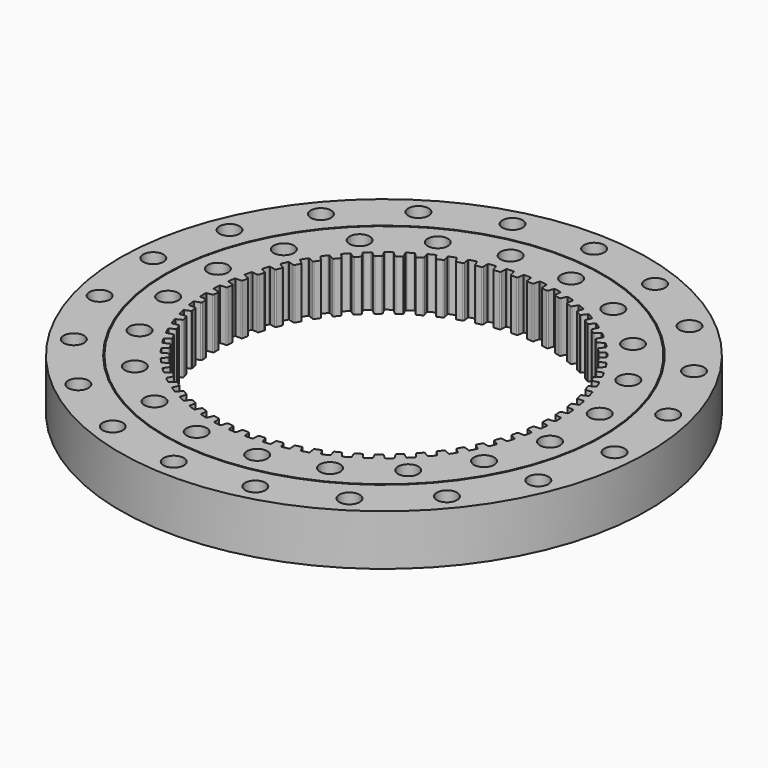
from build123d import *

# Parameters (mm, degrees)
F2_R     = 10
F3_DEPTH = 40
F4_R     = 10
F5_DEPTH = 50.001
F6_R     = 172
F7_DEPTH = 50


with BuildPart() as f1:
    # F0 (on Front) → F1 (revolve)
    with BuildSketch(Plane.XZ):
        with BuildLine():
            Line((-216, 25), (-260, 25))
            Line((-260, 25), (-260, -25))
            Line((-260, -25), (-216, -25))
            Line((-216, -25), (-216, -12.5))
            ThreePointArc((-216, -12.5), (-228.5, 0), (-216, 12.5))
            Line((-216, 12.5), (-216, 25))
        make_face()
        with BuildLine():
            Line((-172, 25), (-215, 25))
            Line((-215, 25), (-215, 12.459936))
            ThreePointArc((-215, 12.459936), (-203.5, 0), (-215, -12.459936))
            Line((-215, -12.459936), (-215, -25))
            Line((-215, -25), (-172, -25))
            Line((-172, -25), (-172, 25))
        make_face()
    revolve(axis=Axis((0, 0, -1.511259), (0, 0, -1)))

    # F2 (on face) → F3 (cut)
    with BuildSketch(Plane.XY.offset(25)):
        with Locations((-239.502752, 15.441241)):
            Circle(F2_R)
        with Locations((-232.552259, -59.324928)):
            Circle(F2_R)
        with Locations((-202.83793, -128.283959)):
            Circle(F2_R)
        with Locations((-153.268412, -184.685663)):
            Circle(F2_R)
        with Locations((-88.695913, -223.009047)):
            Circle(F2_R)
        with Locations((-15.441241, -239.502752)):
            Circle(F2_R)
        with Locations((59.324928, -232.552259)):
            Circle(F2_R)
        with Locations((128.283959, -202.83793)):
            Circle(F2_R)
        with Locations((184.685663, -153.268412)):
            Circle(F2_R)
        with Locations((223.009047, -88.695913)):
            Circle(F2_R)
        with Locations((239.502752, -15.441241)):
            Circle(F2_R)
        with Locations((232.552259, 59.324928)):
            Circle(F2_R)
        with Locations((202.83793, 128.283959)):
            Circle(F2_R)
        with Locations((153.268412, 184.685663)):
            Circle(F2_R)
        with Locations((88.695913, 223.009047)):
            Circle(F2_R)
        with Locations((15.441241, 239.502752)):
            Circle(F2_R)
        with Locations((-59.324928, 232.552259)):
            Circle(F2_R)
        with Locations((-128.283959, 202.83793)):
            Circle(F2_R)
        with Locations((-184.685663, 153.268412)):
            Circle(F2_R)
        with Locations((-223.009047, 88.695913)):
            Circle(F2_R)
    extrude(amount=-F3_DEPTH, mode=Mode.SUBTRACT)

    # F4 (on face) → F5 (cut, through all)
    with BuildSketch(Plane.XY.offset(25)):
        with Locations((-189.710619, 32.651661)):
            Circle(F4_R)
        with Locations((-190.515439, -27.57023)):
            Circle(F4_R)
        with Locations((-172.67128, -85.093355)):
            Circle(F4_R)
        with Locations((-137.924853, -134.28695)):
            Circle(F4_R)
        with Locations((-89.677381, -170.335602)):
            Circle(F4_R)
        with Locations((-32.651661, -189.710619)):
            Circle(F4_R)
        with Locations((27.57023, -190.515439)):
            Circle(F4_R)
        with Locations((85.093355, -172.67128)):
            Circle(F4_R)
        with Locations((134.28695, -137.924853)):
            Circle(F4_R)
        with Locations((170.335602, -89.677381)):
            Circle(F4_R)
        with Locations((189.710619, -32.651661)):
            Circle(F4_R)
        with Locations((190.515439, 27.57023)):
            Circle(F4_R)
        with Locations((172.67128, 85.093355)):
            Circle(F4_R)
        with Locations((137.924853, 134.28695)):
            Circle(F4_R)
        with Locations((89.677381, 170.335602)):
            Circle(F4_R)
        with Locations((32.651661, 189.710619)):
            Circle(F4_R)
        with Locations((-27.57023, 190.515439)):
            Circle(F4_R)
        with Locations((-85.093355, 172.67128)):
            Circle(F4_R)
        with Locations((-134.28695, 137.924853)):
            Circle(F4_R)
        with Locations((-170.335602, 89.677381)):
            Circle(F4_R)
    extrude(amount=-F5_DEPTH, mode=Mode.SUBTRACT)

    # F6 (on face) → F7 (join)
    with BuildSketch(Plane.XY.offset(25)):
        Circle(F6_R)
        with BuildLine():
            ThreePointArc((-166.084407, -3.5), (-165.3773, -3.207107), (-165.084407, -2.5))
            Line((-165.084407, -2.5), (-165.084407, 2.5))
            ThreePointArc((-165.084407, 2.5), (-165.3773, 3.207107), (-166.084407, 3.5))
            Line((-166.084407, 3.5), (-171.288848, 4.5))
            ThreePointArc((-171.288848, 4.5), (-171.622564, 5.047942), (-171.724965, 5.681283))
            ThreePointArc((-171.724965, 5.681283), (-171.618273, 8.301153), (-171.471613, 10.919089))
            ThreePointArc((-171.471613, 10.919089), (-171.308564, 11.53959), (-170.923522, 12.052766))
            Line((-170.923522, 12.052766), (-165.646863, 12.545797))
            ThreePointArc((-165.646863, 12.545797), (-164.914789, 12.769077), (-164.555017, 13.444614))
            Line((-164.555017, 13.444614), (-164.072448, 18.421272))
            ThreePointArc((-164.072448, 18.421272), (-164.295728, 19.153346), (-164.971265, 19.513118))
            Line((-164.971265, 19.513118), (-170.054896, 21.010751))
            ThreePointArc((-170.054896, 21.010751), (-170.33417, 21.588343), (-170.374968, 22.22861))
            ThreePointArc((-170.374968, 22.22861), (-170.015919, 24.825952), (-169.617277, 27.417513))
            ThreePointArc((-169.617277, 27.417513), (-169.395101, 28.01938), (-168.962329, 28.492999))
            Line((-168.962329, 28.492999), (-163.662719, 28.474456))
            ThreePointArc((-163.662719, 28.474456), (-162.912513, 28.626039), (-162.489222, 29.2637))
            Line((-162.489222, 29.2637), (-161.528588, 34.17055))
            ThreePointArc((-161.528588, 34.17055), (-161.680171, 34.920757), (-162.317832, 35.344047))
            Line((-162.317832, 35.344047), (-167.233188, 37.32533))
            ThreePointArc((-167.233188, 37.32533), (-167.455412, 37.927179), (-167.434225, 38.568395))
            ThreePointArc((-167.434225, 38.568395), (-166.826173, 41.118959), (-166.17927, 43.659946))
            ThreePointArc((-166.17927, 43.659946), (-165.900043, 44.237561), (-165.42358, 44.6672))
            Line((-165.42358, 44.6672), (-160.1505, 44.137258))
            ThreePointArc((-160.1505, 44.137258), (-159.389166, 44.215728), (-158.906308, 44.809558))
            Line((-158.906308, 44.809558), (-157.47658, 49.600787))
            ThreePointArc((-157.47658, 49.600787), (-157.55505, 50.362121), (-158.14888, 50.844979))
            Line((-158.14888, 50.844979), (-162.850069, 53.291412))
            ThreePointArc((-162.850069, 53.291412), (-163.013169, 53.9119), (-162.930194, 54.548077))
            ThreePointArc((-162.930194, 54.548077), (-162.078815, 57.028048), (-161.189692, 59.494739))
            ThreePointArc((-161.189692, 59.494739), (-160.856021, 60.042708), (-160.340315, 60.424355))
            Line((-160.340315, 60.424355), (-155.142999, 59.387962))
            ThreePointArc((-155.142999, 59.387962), (-154.377646, 59.392586), (-153.83973, 59.937042))
            Line((-153.83973, 59.937042), (-151.954255, 64.567915))
            ThreePointArc((-151.954255, 64.567915), (-151.958879, 65.333268), (-152.503335, 65.871184))
            Line((-152.503335, 65.871184), (-156.946462, 68.759927))
            ThreePointArc((-156.946462, 68.759927), (-157.048915, 69.393259), (-156.904927, 70.018458))
            ThreePointArc((-156.904927, 70.018458), (-155.818172, 72.404683), (-154.695129, 74.774045))
            ThreePointArc((-154.695129, 74.774045), (-154.310129, 75.287252), (-153.759997, 75.617345))
            Line((-153.759997, 75.617345), (-148.68697, 74.084176))
            ThreePointArc((-148.68697, 74.084176), (-147.924744, 74.014911), (-147.336791, 74.504909))
            Line((-147.336791, 74.504909), (-145.013175, 78.932189))
            ThreePointArc((-145.013175, 78.932189), (-144.94391, 79.694415), (-145.433908, 80.282368))
            Line((-145.433908, 80.282368), (-149.577488, 83.586449))
            ThreePointArc((-149.577488, 83.586449), (-149.618338, 84.226713), (-149.414682, 84.835096))
            ThreePointArc((-149.414682, 84.835096), (-148.102696, 87.105294), (-146.756219, 89.355206))
            ThreePointArc((-146.756219, 89.355206), (-146.323485, 89.828859), (-145.744063, 90.104315))
            Line((-145.744063, 90.104315), (-140.84269, 88.088687))
            ThreePointArc((-140.84269, 88.088687), (-140.090708, 87.94618), (-139.458208, 88.377144))
            Line((-139.458208, 88.377144), (-136.718145, 92.559495))
            ThreePointArc((-136.718145, 92.559495), (-136.575638, 93.311478), (-137.006603, 93.943978))
            Line((-137.006603, 93.943978), (-140.81195, 97.632547))
            ThreePointArc((-140.81195, 97.632547), (-140.790814, 98.273764), (-140.529392, 98.859652))
            ThreePointArc((-140.529392, 98.859652), (-139.004425, 100.992626), (-137.447086, 103.102081))
            ThreePointArc((-137.447086, 103.102081), (-136.970658, 103.531758), (-136.367355, 103.750007))
            Line((-136.367355, 103.750007), (-131.683401, 101.270737))
            ThreePointArc((-131.683401, 101.270737), (-130.948682, 101.056318), (-130.277541, 101.424226))
            Line((-130.277541, 101.424226), (-127.146615, 105.322598))
            ThreePointArc((-127.146615, 105.322598), (-126.932197, 106.057316), (-127.300104, 106.728457))
            Line((-127.300104, 106.728457), (-130.731689, 110.767076))
            ThreePointArc((-130.731689, 110.767076), (-130.648765, 111.40326), (-130.332016, 111.961182))
            ThreePointArc((-130.332016, 111.961182), (-128.608307, 113.937018), (-126.854647, 115.88632))
            ThreePointArc((-126.854647, 115.88632), (-126.338973, 116.268009), (-125.717423, 116.427012))
            Line((-125.717423, 116.427012), (-121.294619, 113.507249))
            ThreePointArc((-121.294619, 113.507249), (-120.584025, 113.222921), (-119.880508, 113.524337))
            Line((-119.880508, 113.524337), (-116.387951, 117.102332))
            ThreePointArc((-116.387951, 117.102332), (-116.103623, 117.812926), (-116.405039, 118.516442))
            Line((-116.405039, 118.516442), (-119.43082, 122.867402))
            ThreePointArc((-119.43082, 122.867402), (-119.286883, 123.492613), (-118.917766, 124.01736))
            ThreePointArc((-118.917766, 124.01736), (-117.011408, 125.81761), (-115.0778, 127.58856))
            ThreePointArc((-115.0778, 127.58856), (-114.527695, 127.918697), (-113.893701, 128.016969))
            Line((-113.893701, 128.016969), (-109.773341, 124.683975))
            ThreePointArc((-109.773341, 124.683975), (-109.093506, 124.332392), (-108.364183, 124.564502))
            Line((-108.364183, 124.564502), (-104.542605, 127.788713))
            ThreePointArc((-104.542605, 127.788713), (-104.191022, 128.468548), (-104.423131, 129.197871))
            Line((-104.423131, 129.197871), (-107.014859, 133.820549))
            ThreePointArc((-107.014859, 133.820549), (-106.811252, 134.428949), (-106.393213, 134.915621))
            ThreePointArc((-106.393213, 134.915621), (-104.322005, 136.523477), (-102.226503, 138.09954))
            ThreePointArc((-102.226503, 138.09954), (-101.647103, 138.375043), (-101.006583, 138.411667))
            Line((-101.006583, 138.411667), (-97.22714, 134.696561))
            ThreePointArc((-97.22714, 134.696561), (-96.584411, 134.281005), (-95.836091, 134.441641))
            Line((-95.836091, 134.441641), (-91.721172, 137.281965))
            ThreePointArc((-91.721172, 137.281965), (-91.305617, 137.924694), (-91.466253, 138.673014))
            Line((-91.466253, 138.673014), (-93.599729, 143.52425))
            ThreePointArc((-93.599729, 143.52425), (-93.338353, 144.110159), (-92.875295, 144.554212))
            ThreePointArc((-92.875295, 144.554212), (-90.658576, 145.954662), (-88.420744, 147.321121))
            ThreePointArc((-88.420744, 147.321121), (-87.817459, 147.539418), (-87.176395, 147.514052))
            Line((-87.176395, 147.514052), (-83.773155, 143.45152))
            ThreePointArc((-83.773155, 143.45152), (-83.173534, 142.975873), (-82.413204, 143.063536))
            Line((-82.413204, 143.063536), (-78.043363, 145.493453))
            ThreePointArc((-78.043363, 145.493453), (-77.567716, 146.093074), (-77.655379, 146.853404))
            Line((-77.655379, 146.853404), (-79.310683, 151.887903))
            ThreePointArc((-79.310683, 151.887903), (-78.993979, 152.44585), (-78.490225, 152.843139))
            ThreePointArc((-78.490225, 152.843139), (-76.148692, 154.023107), (-73.789425, 155.167205))
            ThreePointArc((-73.789425, 155.167205), (-73.167887, 155.326258), (-72.532264, 155.239138))
            Line((-72.532264, 155.239138), (-69.537003, 150.867112))
            ThreePointArc((-69.537003, 150.867112), (-68.986087, 150.335813), (-68.220846, 150.349684))
            Line((-68.220846, 150.349684), (-63.636885, 152.346507))
            ThreePointArc((-63.636885, 152.346507), (-63.105586, 152.897423), (-63.119457, 153.662664))
            Line((-63.119457, 153.662664), (-64.281135, 158.83342))
            ThreePointArc((-64.281135, 158.83342), (-63.91206, 159.358196), (-63.372314, 159.705011))
            ThreePointArc((-63.372314, 159.705011), (-60.927828, 160.653479), (-58.469153, 161.564534))
            ThreePointArc((-58.469153, 161.564534), (-57.835167, 161.662858), (-57.210919, 161.514799))
            Line((-57.210919, 161.514799), (-54.651602, 156.874098))
            ThreePointArc((-54.651602, 156.874098), (-54.154536, 156.292108), (-53.391528, 156.232058))
            Line((-53.391528, 156.232058), (-48.636246, 157.777143))
            ThreePointArc((-48.636246, 157.777143), (-48.054256, 158.274209), (-47.994206, 159.037217))
            Line((-47.994206, 159.037217), (-48.651411, 164.295952))
            ThreePointArc((-48.651411, 164.295952), (-48.233411, 164.782657), (-47.662712, 165.07576))
            ThreePointArc((-47.662712, 165.07576), (-45.138098, 165.783874), (-42.602971, 166.453379))
            ThreePointArc((-42.602971, 166.453379), (-41.962455, 166.490055), (-41.355411, 166.282439))
            Line((-41.355411, 166.282439), (-39.255934, 161.416393))
            ThreePointArc((-39.255934, 161.416393), (-38.817359, 160.789146), (-38.063709, 160.655736))
            Line((-38.063709, 160.655736), (-33.181503, 161.734657))
            ThreePointArc((-33.181503, 161.734657), (-32.554257, 162.173232), (-32.420847, 162.926882))
            Line((-32.420847, 162.926882), (-32.567442, 168.224496))
            ThreePointArc((-32.567442, 168.224496), (-32.104419, 168.668587), (-31.508096, 168.905241))
            ThreePointArc((-31.508096, 168.905241), (-28.926925, 169.366389), (-26.339017, 169.788094))
            ThreePointArc((-26.339017, 169.788094), (-25.697951, 169.76278), (-25.113779, 169.497544))
            Line((-25.113779, 169.497544), (-23.493744, 164.451586))
            ThreePointArc((-23.493744, 164.451586), (-23.117754, 163.784939), (-22.380499, 163.579414))
            Line((-22.380499, 163.579414), (-17.416954, 164.182097))
            ThreePointArc((-17.416954, 164.182097), (-16.750307, 164.558087), (-16.544782, 165.295343))
            Line((-16.544782, 165.295343), (-16.179399, 170.582375))
            ThreePointArc((-16.179399, 170.582375), (-15.675677, 170.979704), (-15.059298, 171.1577))
            ThreePointArc((-15.059298, 171.1577), (-12.445669, 171.367576), (-9.829142, 171.537543))
            ThreePointArc((-9.829142, 171.537543), (-9.193512, 171.450475), (-8.637666, 171.130097))
            Line((-8.637666, 171.130097), (-7.512199, 165.951339))
            ThreePointArc((-7.512199, 165.951339), (-7.202305, 165.251516), (-6.488328, 164.975795))
            Line((-6.488328, 164.975795), (-1.489788, 165.096614))
            ThreePointArc((-1.489788, 165.096614), (-0.789965, 165.406508), (-0.514243, 166.120486))
            Line((-0.514243, 166.120486), (0.359706, 171.347571))
            ThreePointArc((0.359706, 171.347571), (0.899424, 171.694429), (1.530105, 171.812105))
            ThreePointArc((1.530105, 171.812105), (4.151789, 171.76875), (6.772505, 171.685392))
            ThreePointArc((6.772505, 171.685392), (7.396764, 171.537384), (7.919094, 171.164854))
            Line((7.919094, 171.164854), (8.539485, 165.90165))
            ThreePointArc((8.539485, 165.90165), (8.780389, 165.175185), (9.464423, 164.831842))
            Line((9.464423, 164.831842), (14.451289, 164.469668))
            ThreePointArc((14.451289, 164.469668), (15.177754, 164.710572), (15.521097, 165.394606))
            Line((15.521097, 165.394606), (16.895453, 170.512941))
            ThreePointArc((16.895453, 170.512941), (17.466128, 170.80609), (18.105222, 170.862347))
            ThreePointArc((18.105222, 170.862347), (20.710482, 170.566165), (23.310919, 170.230261))
            ThreePointArc((23.310919, 170.230261), (23.917979, 170.022694), (24.401916, 169.601492))
            Line((24.401916, 169.601492), (24.511438, 164.302981))
            ThreePointArc((24.511438, 164.302981), (24.681104, 163.556657), (25.328807, 163.148898))
            Line((25.328807, 163.148898), (30.257437, 162.307113))
            ThreePointArc((30.257437, 162.307113), (31.003762, 162.476779), (31.411521, 163.124482))
            Line((31.411521, 163.124482), (33.273451, 168.086278))
            ThreePointArc((33.273451, 168.086278), (33.869755, 168.322981), (34.511295, 168.317293))
            ThreePointArc((34.511295, 168.317293), (37.075807, 167.77105), (39.631685, 167.185736))
            ThreePointArc((39.631685, 167.185736), (40.215878, 166.920548), (40.656904, 166.454605))
            Line((40.656904, 166.454605), (40.254535, 161.17026))
            ThreePointArc((40.254535, 161.17026), (40.351378, 160.411044), (40.956703, 159.942677))
            Line((40.956703, 159.942677), (45.781081, 158.62914))
            ThreePointArc((45.781081, 158.62914), (46.540296, 158.725983), (47.008663, 159.331308))
            Line((47.008663, 159.331308), (49.340784, 164.090239))
            ThreePointArc((49.340784, 164.090239), (49.957149, 164.268285), (50.595146, 164.200706))
            ThreePointArc((50.595146, 164.200706), (53.094966, 163.409502), (55.58242, 162.580242))
            ThreePointArc((55.58242, 162.580242), (56.138292, 162.25991), (56.53229, 161.753577))
            Line((56.53229, 161.753577), (55.621785, 156.532735))
            ThreePointArc((55.621785, 156.532735), (55.644902, 155.767717), (56.202197, 155.243114))
            Line((56.202197, 155.243114), (60.877278, 153.470089))
            ThreePointArc((60.877278, 153.470089), (61.642296, 153.493206), (62.166899, 154.050501))
            Line((62.166899, 154.050501), (64.947436, 158.562133))
            ThreePointArc((64.947436, 158.562133), (65.578107, 158.67986), (66.206603, 158.551021))
            ThreePointArc((66.206603, 158.551021), (68.618391, 157.522243), (71.014198, 156.456781))
            ThreePointArc((71.014198, 156.456781), (71.536558, 156.084294), (71.879848, 155.542299))
            Line((71.879848, 155.542299), (70.469711, 150.433706))
            ThreePointArc((70.469711, 150.433706), (70.418884, 149.670029), (70.922946, 149.094088))
            Line((70.922946, 149.094088), (75.405081, 146.87813))
            ThreePointArc((75.405081, 146.87813), (76.168758, 146.827304), (76.744699, 147.331366))
            Line((76.744699, 147.331366), (79.947691, 151.553575))
            ThreePointArc((79.947691, 151.553575), (80.58678, 151.609884), (81.199908, 151.420988))
            ThreePointArc((81.199908, 151.420988), (83.501144, 150.164242), (85.782935, 148.872525))
            ThreePointArc((85.782935, 148.872525), (86.266907, 148.451362), (86.556284, 147.878765))
            Line((86.556284, 147.878765), (84.659679, 142.930119))
            ThreePointArc((84.659679, 142.930119), (84.535385, 142.174912), (84.981507, 141.553011))
            Line((84.981507, 141.553011), (89.228847, 138.914809))
            ThreePointArc((89.228847, 138.914809), (89.984053, 138.790515), (90.605955, 139.236637))
            Line((90.605955, 139.236637), (94.201495, 143.130003))
            ThreePointArc((94.201495, 143.130003), (94.843036, 143.124368), (95.43507, 142.877178))
            ThreePointArc((95.43507, 142.877178), (97.60427, 141.404198), (99.75074, 139.898286))
            ThreePointArc((99.75074, 139.898286), (100.191804, 139.432379), (100.424567, 138.834527))
            Line((100.424567, 138.834527), (98.059203, 134.092031))
            ThreePointArc((98.059203, 134.092031), (97.862601, 133.352346), (98.246618, 132.690291))
            Line((98.246618, 132.690291), (102.219507, 129.654479))
            ThreePointArc((102.219507, 129.654479), (102.959192, 129.457876), (103.621247, 129.841894))
            Line((103.621247, 129.841894), (107.575766, 133.370064))
            ThreePointArc((107.575766, 133.370064), (108.213768, 133.302537), (108.779181, 132.999363))
            ThreePointArc((108.779181, 132.999363), (110.796091, 131.3239), (112.7872, 129.617855))
            ThreePointArc((112.7872, 129.617855), (113.181238, 129.111554), (113.355213, 128.494028))
            Line((113.355213, 128.494028), (110.543175, 124.001963))
            ThreePointArc((110.543175, 124.001963), (110.2761, 123.284706), (110.594427, 122.588678))
            Line((110.594427, 122.588678), (114.255771, 119.183599))
            ThreePointArc((114.255771, 119.183599), (114.973028, 118.916524), (115.669055, 119.234852))
            Line((115.669055, 119.234852), (119.945631, 122.364885))
            ThreePointArc((119.945631, 122.364885), (120.574137, 122.236097), (121.10765, 121.879768))
            ThreePointArc((121.10765, 121.879768), (122.953439, 120.017467), (124.770595, 118.127217))
            ThreePointArc((124.770595, 118.127217), (125.113929, 117.585249), (125.227492, 116.953815))
            Line((125.227492, 116.953815), (121.995034, 112.754121))
            ThreePointArc((121.995034, 112.754121), (121.659981, 112.065989), (121.909646, 111.342487))
            Line((121.909646, 111.342487), (125.225259, 107.599934))
            ThreePointArc((125.225259, 107.599934), (125.913392, 107.264881), (126.636893, 107.514546))
            Line((126.636893, 107.514546), (131.195596, 110.217218))
            ThreePointArc((131.195596, 110.217218), (131.808738, 110.028372), (132.305369, 109.622214))
            ThreePointArc((132.305369, 109.622214), (133.962804, 107.590463), (135.589041, 105.533656))
            ThreePointArc((135.589041, 105.533656), (135.878465, 104.961083), (135.930555, 104.321635))
            Line((135.930555, 104.321635), (132.307859, 100.453524))
            ThreePointArc((132.307859, 100.453524), (131.907956, 99.800942), (132.086627, 99.056722))
            Line((132.086627, 99.056722), (135.025554, 95.011637))
            ThreePointArc((135.025554, 95.011637), (135.678136, 94.611734), (136.422356, 94.790405))
            Line((136.422356, 94.790405), (141.220623, 97.040482))
            ThreePointArc((141.220623, 97.040482), (141.812676, 96.793341), (142.267789, 96.341148))
            ThreePointArc((142.267789, 96.341148), (143.721394, 94.158916), (145.141529, 91.954757))
            ThreePointArc((145.141529, 91.954757), (145.37434, 91.356923), (145.364472, 90.715433))
            Line((145.364472, 90.715433), (141.385361, 87.21502))
            ThreePointArc((141.385361, 87.21502), (140.924342, 86.604081), (141.030351, 85.846091))
            Line((141.030351, 85.846091), (143.565151, 81.536243))
            ThreePointArc((143.565151, 81.536243), (144.176091, 81.075223), (144.93408, 81.181233))
            Line((144.93408, 81.181233), (149.927111, 82.957706))
            ThreePointArc((149.927111, 82.957706), (150.492548, 82.654577), (150.901893, 82.16057))
            Line((150.901893, 82.16057), (153.338869, 77.5173))
            ThreePointArc((153.338869, 77.5173), (153.512894, 76.899788), (153.44116, 76.262245))
            Line((153.44116, 76.262245), (149.142786, 73.162213))
            ThreePointArc((149.142786, 73.162213), (148.624955, 72.59862), (148.657313, 71.833938))
            Line((148.657313, 71.833938), (150.764319, 67.299566))
            ThreePointArc((150.764319, 67.299566), (151.327912, 66.781734), (152.092594, 66.814093))
            Line((152.092594, 66.814093), (157.23377, 68.100376))
            ThreePointArc((157.23377, 68.100376), (157.767311, 67.744089), (158.127067, 67.212881))
            ThreePointArc((158.127067, 67.212881), (159.134326, 64.792028), (160.104526, 62.356086))
            ThreePointArc((160.104526, 62.356086), (160.21814, 61.72466), (160.085208, 61.097017))
            Line((160.085208, 61.097017), (155.507705, 58.42631))
            ThreePointArc((155.507705, 58.42631), (154.937897, 57.915326), (154.896301, 57.151091))
            Line((154.896301, 57.151091), (156.555841, 52.434531))
            ThreePointArc((156.555841, 52.434531), (157.066825, 51.864723), (157.83106, 51.823128))
            Line((157.83106, 51.823128), (163.072379, 52.607211))
            ThreePointArc((163.072379, 52.607211), (163.569043, 52.201093), (163.875851, 51.637644))
            ThreePointArc((163.875851, 51.637644), (164.644762, 49.130877), (165.37533, 46.612669))
            ThreePointArc((165.37533, 46.612669), (165.427472, 45.973226), (165.234585, 45.361343))
            Line((165.234585, 45.361343), (160.420691, 43.144896))
            ThreePointArc((160.420691, 43.144896), (159.804225, 42.691292), (159.689065, 41.934639))
            Line((159.689065, 41.934639), (160.885643, 37.07993))
            ThreePointArc((160.885643, 37.07993), (161.339247, 36.463464), (162.095901, 36.348304))
            Line((162.095901, 36.348304), (167.388426, 36.622866))
            ThreePointArc((167.388426, 36.622866), (167.843575, 36.17071), (168.09457, 35.580279))
            ThreePointArc((168.09457, 35.580279), (168.617954, 33.011005), (169.102069, 30.434042))
            ThreePointArc((169.102069, 30.434042), (169.092253, 29.792552), (168.841211, 29.202142))
            Line((168.841211, 29.202142), (163.835872, 27.46065))
            ThreePointArc((163.835872, 27.46065), (163.178505, 27.068662), (162.990854, 26.326655))
            Line((162.990854, 26.326655), (163.7133, 21.379123))
            ThreePointArc((163.7133, 21.379123), (164.105288, 20.721756), (164.847295, 20.534106))
            Line((164.847295, 20.534106), (170.141612, 20.296584))
            ThreePointArc((170.141612, 20.296584), (170.550997, 19.80261), (170.743835, 19.190712))
            ThreePointArc((170.743835, 19.190712), (171.016805, 16.582917), (171.249948, 13.971262))
            ThreePointArc((171.249948, 13.971262), (171.178264, 13.333713), (170.871411, 12.770288))
            Line((170.871411, 12.770288), (165.721361, 11.520012))
            ThreePointArc((165.721361, 11.520012), (165.029231, 11.193298), (164.770842, 10.472866))
            Line((164.770842, 10.472866), (165.012409, 5.478705))
            ThreePointArc((165.012409, 5.478705), (165.339123, 4.786575), (166.059555, 4.528186))
            Line((166.059555, 4.528186), (171.306232, 3.780798))
            ThreePointArc((171.306232, 3.780798), (171.666031, 3.249619), (171.798911, 2.621965))
            ThreePointArc((171.798911, 2.621965), (171.818918, 0), (171.798911, -2.621965))
            ThreePointArc((171.798911, -2.621965), (171.666031, -3.249619), (171.306232, -3.780798))
            Line((171.306232, -3.780798), (166.059555, -4.528186))
            ThreePointArc((166.059555, -4.528186), (165.339123, -4.786575), (165.012409, -5.478705))
            Line((165.012409, -5.478705), (164.770842, -10.472866))
            ThreePointArc((164.770842, -10.472866), (165.029231, -11.193298), (165.721361, -11.520012))
            Line((165.721361, -11.520012), (170.871411, -12.770288))
            ThreePointArc((170.871411, -12.770288), (171.178264, -13.333713), (171.249948, -13.971262))
            ThreePointArc((171.249948, -13.971262), (171.016805, -16.582917), (170.743835, -19.190712))
            ThreePointArc((170.743835, -19.190712), (170.550997, -19.80261), (170.141612, -20.296584))
            Line((170.141612, -20.296584), (164.847295, -20.534106))
            ThreePointArc((164.847295, -20.534106), (164.105288, -20.721756), (163.7133, -21.379123))
            Line((163.7133, -21.379123), (162.990854, -26.326655))
            ThreePointArc((162.990854, -26.326655), (163.178505, -27.068662), (163.835872, -27.46065))
            Line((163.835872, -27.46065), (168.841211, -29.202142))
            ThreePointArc((168.841211, -29.202142), (169.092253, -29.792552), (169.102069, -30.434042))
            ThreePointArc((169.102069, -30.434042), (168.617954, -33.011005), (168.09457, -35.580279))
            ThreePointArc((168.09457, -35.580279), (167.843575, -36.17071), (167.388426, -36.622866))
            Line((167.388426, -36.622866), (162.095901, -36.348304))
            ThreePointArc((162.095901, -36.348304), (161.339247, -36.463464), (160.885643, -37.07993))
            Line((160.885643, -37.07993), (159.689065, -41.934639))
            ThreePointArc((159.689065, -41.934639), (159.804225, -42.691292), (160.420691, -43.144896))
            Line((160.420691, -43.144896), (165.234585, -45.361343))
            ThreePointArc((165.234585, -45.361343), (165.427472, -45.973226), (165.37533, -46.612669))
            ThreePointArc((165.37533, -46.612669), (164.644762, -49.130877), (163.875851, -51.637644))
            ThreePointArc((163.875851, -51.637644), (163.569043, -52.201093), (163.072379, -52.607211))
            Line((163.072379, -52.607211), (157.83106, -51.823128))
            ThreePointArc((157.83106, -51.823128), (157.066825, -51.864723), (156.555841, -52.434531))
            Line((156.555841, -52.434531), (154.896301, -57.151091))
            ThreePointArc((154.896301, -57.151091), (154.937897, -57.915326), (155.507705, -58.42631))
            Line((155.507705, -58.42631), (160.085208, -61.097017))
            ThreePointArc((160.085208, -61.097017), (160.21814, -61.72466), (160.104526, -62.356086))
            ThreePointArc((160.104526, -62.356086), (159.134326, -64.792028), (158.127067, -67.212881))
            ThreePointArc((158.127067, -67.212881), (157.767311, -67.744089), (157.23377, -68.100376))
            Line((157.23377, -68.100376), (152.092594, -66.814093))
            ThreePointArc((152.092594, -66.814093), (151.327912, -66.781734), (150.764319, -67.299566))
            Line((150.764319, -67.299566), (148.657313, -71.833938))
            ThreePointArc((148.657313, -71.833938), (148.624955, -72.59862), (149.142786, -73.162213))
            Line((149.142786, -73.162213), (153.44116, -76.262245))
            ThreePointArc((153.44116, -76.262245), (153.512894, -76.899788), (153.338869, -77.5173))
            ThreePointArc((153.338869, -77.5173), (152.138097, -79.848233), (150.901893, -82.16057))
            ThreePointArc((150.901893, -82.16057), (150.492548, -82.654577), (149.927111, -82.957706))
            Line((149.927111, -82.957706), (144.93408, -81.181233))
            ThreePointArc((144.93408, -81.181233), (144.176091, -81.075223), (143.565151, -81.536243))
            Line((143.565151, -81.536243), (141.030351, -85.846091))
            ThreePointArc((141.030351, -85.846091), (140.924342, -86.604081), (141.385361, -87.21502))
            Line((141.385361, -87.21502), (145.364472, -90.715433))
            ThreePointArc((145.364472, -90.715433), (145.37434, -91.356923), (145.141529, -91.954757))
            ThreePointArc((145.141529, -91.954757), (143.721394, -94.158916), (142.267789, -96.341148))
            ThreePointArc((142.267789, -96.341148), (141.812676, -96.793341), (141.220623, -97.040482))
            Line((141.220623, -97.040482), (136.422356, -94.790405))
            ThreePointArc((136.422356, -94.790405), (135.678136, -94.611734), (135.025554, -95.011637))
            Line((135.025554, -95.011637), (132.086627, -99.056722))
            ThreePointArc((132.086627, -99.056722), (131.907956, -99.800942), (132.307859, -100.453524))
            Line((132.307859, -100.453524), (135.930555, -104.321635))
            ThreePointArc((135.930555, -104.321635), (135.878465, -104.961083), (135.589041, -105.533656))
            ThreePointArc((135.589041, -105.533656), (133.962804, -107.590463), (132.305369, -109.622214))
            ThreePointArc((132.305369, -109.622214), (131.808738, -110.028372), (131.195596, -110.217218))
            Line((131.195596, -110.217218), (126.636893, -107.514546))
            ThreePointArc((126.636893, -107.514546), (125.913392, -107.264881), (125.225259, -107.599934))
            Line((125.225259, -107.599934), (121.909646, -111.342487))
            ThreePointArc((121.909646, -111.342487), (121.659981, -112.065989), (121.995034, -112.754121))
            Line((121.995034, -112.754121), (125.227492, -116.953815))
            ThreePointArc((125.227492, -116.953815), (125.113929, -117.585249), (124.770595, -118.127217))
            ThreePointArc((124.770595, -118.127217), (122.953439, -120.017467), (121.10765, -121.879768))
            ThreePointArc((121.10765, -121.879768), (120.574137, -122.236097), (119.945631, -122.364885))
            Line((119.945631, -122.364885), (115.669055, -119.234852))
            ThreePointArc((115.669055, -119.234852), (114.973028, -118.916524), (114.255771, -119.183599))
            Line((114.255771, -119.183599), (110.594427, -122.588678))
            ThreePointArc((110.594427, -122.588678), (110.2761, -123.284706), (110.543175, -124.001963))
            Line((110.543175, -124.001963), (113.355213, -128.494028))
            ThreePointArc((113.355213, -128.494028), (113.181238, -129.111554), (112.7872, -129.617855))
            ThreePointArc((112.7872, -129.617855), (110.796091, -131.3239), (108.779181, -132.999363))
            ThreePointArc((108.779181, -132.999363), (108.213768, -133.302537), (107.575766, -133.370064))
            Line((107.575766, -133.370064), (103.621247, -129.841894))
            ThreePointArc((103.621247, -129.841894), (102.959192, -129.457876), (102.219507, -129.654479))
            Line((102.219507, -129.654479), (98.246618, -132.690291))
            ThreePointArc((98.246618, -132.690291), (97.862601, -133.352346), (98.059203, -134.092031))
            Line((98.059203, -134.092031), (100.424567, -138.834527))
            ThreePointArc((100.424567, -138.834527), (100.191804, -139.432379), (99.75074, -139.898286))
            ThreePointArc((99.75074, -139.898286), (97.60427, -141.404198), (95.43507, -142.877178))
            ThreePointArc((95.43507, -142.877178), (94.843036, -143.124368), (94.201495, -143.130003))
            Line((94.201495, -143.130003), (90.605955, -139.236637))
            ThreePointArc((90.605955, -139.236637), (89.984053, -138.790515), (89.228847, -138.914809))
            Line((89.228847, -138.914809), (84.981507, -141.553011))
            ThreePointArc((84.981507, -141.553011), (84.535385, -142.174912), (84.659679, -142.930119))
            Line((84.659679, -142.930119), (86.556284, -147.878765))
            ThreePointArc((86.556284, -147.878765), (86.266907, -148.451362), (85.782935, -148.872525))
            ThreePointArc((85.782935, -148.872525), (83.501144, -150.164242), (81.199908, -151.420988))
            ThreePointArc((81.199908, -151.420988), (80.58678, -151.609884), (79.947691, -151.553575))
            Line((79.947691, -151.553575), (76.744699, -147.331366))
            ThreePointArc((76.744699, -147.331366), (76.168758, -146.827304), (75.405081, -146.87813))
            Line((75.405081, -146.87813), (70.922946, -149.094088))
            ThreePointArc((70.922946, -149.094088), (70.418884, -149.670029), (70.469711, -150.433706))
            Line((70.469711, -150.433706), (71.879848, -155.542299))
            ThreePointArc((71.879848, -155.542299), (71.536558, -156.084294), (71.014198, -156.456781))
            ThreePointArc((71.014198, -156.456781), (68.618391, -157.522243), (66.206603, -158.551021))
            ThreePointArc((66.206603, -158.551021), (65.578107, -158.67986), (64.947436, -158.562133))
            Line((64.947436, -158.562133), (62.166899, -154.050501))
            ThreePointArc((62.166899, -154.050501), (61.642296, -153.493206), (60.877278, -153.470089))
            Line((60.877278, -153.470089), (56.202197, -155.243114))
            ThreePointArc((56.202197, -155.243114), (55.644902, -155.767717), (55.621785, -156.532735))
            Line((55.621785, -156.532735), (56.53229, -161.753577))
            ThreePointArc((56.53229, -161.753577), (56.138292, -162.25991), (55.58242, -162.580242))
            ThreePointArc((55.58242, -162.580242), (53.094966, -163.409502), (50.595146, -164.200706))
            ThreePointArc((50.595146, -164.200706), (49.957149, -164.268285), (49.340784, -164.090239))
            Line((49.340784, -164.090239), (47.008663, -159.331308))
            ThreePointArc((47.008663, -159.331308), (46.540296, -158.725983), (45.781081, -158.62914))
            Line((45.781081, -158.62914), (40.956703, -159.942677))
            ThreePointArc((40.956703, -159.942677), (40.351378, -160.411044), (40.254535, -161.17026))
            Line((40.254535, -161.17026), (40.656904, -166.454605))
            ThreePointArc((40.656904, -166.454605), (40.215878, -166.920548), (39.631685, -167.185736))
            ThreePointArc((39.631685, -167.185736), (37.075807, -167.77105), (34.511295, -168.317293))
            ThreePointArc((34.511295, -168.317293), (33.869755, -168.322981), (33.273451, -168.086278))
            Line((33.273451, -168.086278), (31.411521, -163.124482))
            ThreePointArc((31.411521, -163.124482), (31.003762, -162.476779), (30.257437, -162.307113))
            Line((30.257437, -162.307113), (25.328807, -163.148898))
            ThreePointArc((25.328807, -163.148898), (24.681104, -163.556657), (24.511438, -164.302981))
            Line((24.511438, -164.302981), (24.401916, -169.601492))
            ThreePointArc((24.401916, -169.601492), (23.917979, -170.022694), (23.310919, -170.230261))
            ThreePointArc((23.310919, -170.230261), (20.710482, -170.566165), (18.105222, -170.862347))
            ThreePointArc((18.105222, -170.862347), (17.466128, -170.80609), (16.895453, -170.512941))
            Line((16.895453, -170.512941), (15.521097, -165.394606))
            ThreePointArc((15.521097, -165.394606), (15.177754, -164.710572), (14.451289, -164.469668))
            Line((14.451289, -164.469668), (9.464423, -164.831842))
            ThreePointArc((9.464423, -164.831842), (8.780389, -165.175185), (8.539485, -165.90165))
            Line((8.539485, -165.90165), (7.919094, -171.164854))
            ThreePointArc((7.919094, -171.164854), (7.396764, -171.537384), (6.772505, -171.685392))
            ThreePointArc((6.772505, -171.685392), (4.151789, -171.76875), (1.530105, -171.812105))
            ThreePointArc((1.530105, -171.812105), (0.899424, -171.694429), (0.359706, -171.347571))
            Line((0.359706, -171.347571), (-0.514243, -166.120486))
            ThreePointArc((-0.514243, -166.120486), (-0.789965, -165.406508), (-1.489788, -165.096614))
            Line((-1.489788, -165.096614), (-6.488328, -164.975795))
            ThreePointArc((-6.488328, -164.975795), (-7.202305, -165.251516), (-7.512199, -165.951339))
            Line((-7.512199, -165.951339), (-8.637666, -171.130097))
            ThreePointArc((-8.637666, -171.130097), (-9.193512, -171.450475), (-9.829142, -171.537543))
            ThreePointArc((-9.829142, -171.537543), (-12.445669, -171.367576), (-15.059298, -171.1577))
            ThreePointArc((-15.059298, -171.1577), (-15.675677, -170.979704), (-16.179399, -170.582375))
            Line((-16.179399, -170.582375), (-16.544782, -165.295343))
            ThreePointArc((-16.544782, -165.295343), (-16.750307, -164.558087), (-17.416954, -164.182097))
            Line((-17.416954, -164.182097), (-22.380499, -163.579414))
            ThreePointArc((-22.380499, -163.579414), (-23.117754, -163.784939), (-23.493744, -164.451586))
            Line((-23.493744, -164.451586), (-25.113779, -169.497544))
            ThreePointArc((-25.113779, -169.497544), (-25.697951, -169.76278), (-26.339017, -169.788094))
            ThreePointArc((-26.339017, -169.788094), (-28.926925, -169.366389), (-31.508096, -168.905241))
            ThreePointArc((-31.508096, -168.905241), (-32.104419, -168.668587), (-32.567442, -168.224496))
            Line((-32.567442, -168.224496), (-32.420847, -162.926882))
            ThreePointArc((-32.420847, -162.926882), (-32.554257, -162.173232), (-33.181503, -161.734657))
            Line((-33.181503, -161.734657), (-38.063709, -160.655736))
            ThreePointArc((-38.063709, -160.655736), (-38.817359, -160.789146), (-39.255934, -161.416393))
            Line((-39.255934, -161.416393), (-41.355411, -166.282439))
            ThreePointArc((-41.355411, -166.282439), (-41.962455, -166.490055), (-42.602971, -166.453379))
            ThreePointArc((-42.602971, -166.453379), (-45.138098, -165.783874), (-47.662712, -165.07576))
            ThreePointArc((-47.662712, -165.07576), (-48.233411, -164.782657), (-48.651411, -164.295952))
            Line((-48.651411, -164.295952), (-47.994206, -159.037217))
            ThreePointArc((-47.994206, -159.037217), (-48.054256, -158.274209), (-48.636246, -157.777143))
            Line((-48.636246, -157.777143), (-53.391528, -156.232058))
            ThreePointArc((-53.391528, -156.232058), (-54.154536, -156.292108), (-54.651602, -156.874098))
            Line((-54.651602, -156.874098), (-57.210919, -161.514799))
            ThreePointArc((-57.210919, -161.514799), (-57.835167, -161.662858), (-58.469153, -161.564534))
            ThreePointArc((-58.469153, -161.564534), (-60.927828, -160.653479), (-63.372314, -159.705011))
            ThreePointArc((-63.372314, -159.705011), (-63.91206, -159.358196), (-64.281135, -158.83342))
            Line((-64.281135, -158.83342), (-63.119457, -153.662664))
            ThreePointArc((-63.119457, -153.662664), (-63.105586, -152.897423), (-63.636885, -152.346507))
            Line((-63.636885, -152.346507), (-68.220846, -150.349684))
            ThreePointArc((-68.220846, -150.349684), (-68.986087, -150.335813), (-69.537003, -150.867112))
            Line((-69.537003, -150.867112), (-72.532264, -155.239138))
            ThreePointArc((-72.532264, -155.239138), (-73.167887, -155.326258), (-73.789425, -155.167205))
            ThreePointArc((-73.789425, -155.167205), (-76.148692, -154.023107), (-78.490225, -152.843139))
            ThreePointArc((-78.490225, -152.843139), (-78.993979, -152.44585), (-79.310683, -151.887903))
            Line((-79.310683, -151.887903), (-77.655379, -146.853404))
            ThreePointArc((-77.655379, -146.853404), (-77.567716, -146.093074), (-78.043363, -145.493453))
            Line((-78.043363, -145.493453), (-82.413204, -143.063536))
            ThreePointArc((-82.413204, -143.063536), (-83.173534, -142.975873), (-83.773155, -143.45152))
            Line((-83.773155, -143.45152), (-87.176395, -147.514052))
            ThreePointArc((-87.176395, -147.514052), (-87.817459, -147.539418), (-88.420744, -147.321121))
            ThreePointArc((-88.420744, -147.321121), (-90.658576, -145.954662), (-92.875295, -144.554212))
            ThreePointArc((-92.875295, -144.554212), (-93.338353, -144.110159), (-93.599729, -143.52425))
            Line((-93.599729, -143.52425), (-91.466253, -138.673014))
            ThreePointArc((-91.466253, -138.673014), (-91.305617, -137.924694), (-91.721172, -137.281965))
            Line((-91.721172, -137.281965), (-95.836091, -134.441641))
            ThreePointArc((-95.836091, -134.441641), (-96.584411, -134.281005), (-97.22714, -134.696561))
            Line((-97.22714, -134.696561), (-101.006583, -138.411667))
            ThreePointArc((-101.006583, -138.411667), (-101.647103, -138.375043), (-102.226503, -138.09954))
            ThreePointArc((-102.226503, -138.09954), (-104.322005, -136.523477), (-106.393213, -134.915621))
            ThreePointArc((-106.393213, -134.915621), (-106.811252, -134.428949), (-107.014859, -133.820549))
            Line((-107.014859, -133.820549), (-104.423131, -129.197871))
            ThreePointArc((-104.423131, -129.197871), (-104.191022, -128.468548), (-104.542605, -127.788713))
            Line((-104.542605, -127.788713), (-108.364183, -124.564502))
            ThreePointArc((-108.364183, -124.564502), (-109.093506, -124.332392), (-109.773341, -124.683975))
            Line((-109.773341, -124.683975), (-113.893701, -128.016969))
            ThreePointArc((-113.893701, -128.016969), (-114.527695, -127.918697), (-115.0778, -127.58856))
            ThreePointArc((-115.0778, -127.58856), (-117.011408, -125.81761), (-118.917766, -124.01736))
            ThreePointArc((-118.917766, -124.01736), (-119.286883, -123.492613), (-119.43082, -122.867402))
            Line((-119.43082, -122.867402), (-116.405039, -118.516442))
            ThreePointArc((-116.405039, -118.516442), (-116.103623, -117.812926), (-116.387951, -117.102332))
            Line((-116.387951, -117.102332), (-119.880508, -113.524337))
            ThreePointArc((-119.880508, -113.524337), (-120.584025, -113.222921), (-121.294619, -113.507249))
            Line((-121.294619, -113.507249), (-125.717423, -116.427012))
            ThreePointArc((-125.717423, -116.427012), (-126.338973, -116.268009), (-126.854647, -115.88632))
            ThreePointArc((-126.854647, -115.88632), (-128.608307, -113.937018), (-130.332016, -111.961182))
            ThreePointArc((-130.332016, -111.961182), (-130.648765, -111.40326), (-130.731689, -110.767076))
            Line((-130.731689, -110.767076), (-127.300104, -106.728457))
            ThreePointArc((-127.300104, -106.728457), (-126.932197, -106.057316), (-127.146615, -105.322598))
            Line((-127.146615, -105.322598), (-130.277541, -101.424226))
            ThreePointArc((-130.277541, -101.424226), (-130.948682, -101.056318), (-131.683401, -101.270737))
            Line((-131.683401, -101.270737), (-136.367355, -103.750007))
            ThreePointArc((-136.367355, -103.750007), (-136.970658, -103.531758), (-137.447086, -103.102081))
            ThreePointArc((-137.447086, -103.102081), (-139.004425, -100.992626), (-140.529392, -98.859652))
            ThreePointArc((-140.529392, -98.859652), (-140.790814, -98.273764), (-140.81195, -97.632547))
            Line((-140.81195, -97.632547), (-137.006603, -93.943978))
            ThreePointArc((-137.006603, -93.943978), (-136.575638, -93.311478), (-136.718145, -92.559495))
            Line((-136.718145, -92.559495), (-139.458208, -88.377144))
            ThreePointArc((-139.458208, -88.377144), (-140.090708, -87.94618), (-140.84269, -88.088687))
            Line((-140.84269, -88.088687), (-145.744063, -90.104315))
            ThreePointArc((-145.744063, -90.104315), (-146.323485, -89.828859), (-146.756219, -89.355206))
            ThreePointArc((-146.756219, -89.355206), (-148.102696, -87.105294), (-149.414682, -84.835096))
            ThreePointArc((-149.414682, -84.835096), (-149.618338, -84.226713), (-149.577488, -83.586449))
            Line((-149.577488, -83.586449), (-145.433908, -80.282368))
            ThreePointArc((-145.433908, -80.282368), (-144.94391, -79.694415), (-145.013175, -78.932189))
            Line((-145.013175, -78.932189), (-147.336791, -74.504909))
            ThreePointArc((-147.336791, -74.504909), (-147.924744, -74.014911), (-148.68697, -74.084176))
            Line((-148.68697, -74.084176), (-153.759997, -75.617345))
            ThreePointArc((-153.759997, -75.617345), (-154.310129, -75.287252), (-154.695129, -74.774045))
            ThreePointArc((-154.695129, -74.774045), (-155.818172, -72.404683), (-156.904927, -70.018458))
            ThreePointArc((-156.904927, -70.018458), (-157.048915, -69.393259), (-156.946462, -68.759927))
            Line((-156.946462, -68.759927), (-152.503335, -65.871184))
            ThreePointArc((-152.503335, -65.871184), (-151.958879, -65.333268), (-151.954255, -64.567915))
            Line((-151.954255, -64.567915), (-153.83973, -59.937042))
            ThreePointArc((-153.83973, -59.937042), (-154.377646, -59.392586), (-155.142999, -59.387962))
            Line((-155.142999, -59.387962), (-160.340315, -60.424355))
            ThreePointArc((-160.340315, -60.424355), (-160.856021, -60.042708), (-161.189692, -59.494739))
            ThreePointArc((-161.189692, -59.494739), (-162.078815, -57.028048), (-162.930194, -54.548077))
            ThreePointArc((-162.930194, -54.548077), (-163.013169, -53.9119), (-162.850069, -53.291412))
            Line((-162.850069, -53.291412), (-158.14888, -50.844979))
            ThreePointArc((-158.14888, -50.844979), (-157.55505, -50.362121), (-157.47658, -49.600787))
            Line((-157.47658, -49.600787), (-158.906308, -44.809558))
            ThreePointArc((-158.906308, -44.809558), (-159.389166, -44.215728), (-160.1505, -44.137258))
            Line((-160.1505, -44.137258), (-165.42358, -44.6672))
            ThreePointArc((-165.42358, -44.6672), (-165.900043, -44.237561), (-166.17927, -43.659946))
            ThreePointArc((-166.17927, -43.659946), (-166.826173, -41.118959), (-167.434225, -38.568395))
            ThreePointArc((-167.434225, -38.568395), (-167.455412, -37.927179), (-167.233188, -37.32533))
            Line((-167.233188, -37.32533), (-162.317832, -35.344047))
            ThreePointArc((-162.317832, -35.344047), (-161.680171, -34.920757), (-161.528588, -34.17055))
            Line((-161.528588, -34.17055), (-162.489222, -29.2637))
            ThreePointArc((-162.489222, -29.2637), (-162.912513, -28.626039), (-163.662719, -28.474456))
            Line((-163.662719, -28.474456), (-168.962329, -28.492999))
            ThreePointArc((-168.962329, -28.492999), (-169.395101, -28.01938), (-169.617277, -27.417513))
            Line((-169.617277, -27.417513), (-170.374968, -22.22861))
            ThreePointArc((-170.374968, -22.22861), (-170.33417, -21.588343), (-170.054896, -21.010751))
            Line((-170.054896, -21.010751), (-164.971265, -19.513118))
            ThreePointArc((-164.971265, -19.513118), (-164.295728, -19.153346), (-164.072448, -18.421272))
            Line((-164.072448, -18.421272), (-164.555017, -13.444614))
            ThreePointArc((-164.555017, -13.444614), (-164.914789, -12.769077), (-165.646863, -12.545797))
            Line((-165.646863, -12.545797), (-170.923522, -12.052766))
            ThreePointArc((-170.923522, -12.052766), (-171.308564, -11.53959), (-171.471613, -10.919089))
            ThreePointArc((-171.471613, -10.919089), (-171.618273, -8.301153), (-171.724965, -5.681283))
            ThreePointArc((-171.724965, -5.681283), (-171.622564, -5.047942), (-171.288848, -4.5))
            Line((-171.288848, -4.5), (-166.084407, -3.5))
        make_face(mode=Mode.SUBTRACT)
    extrude(amount=-F7_DEPTH)


solid = f1.part
